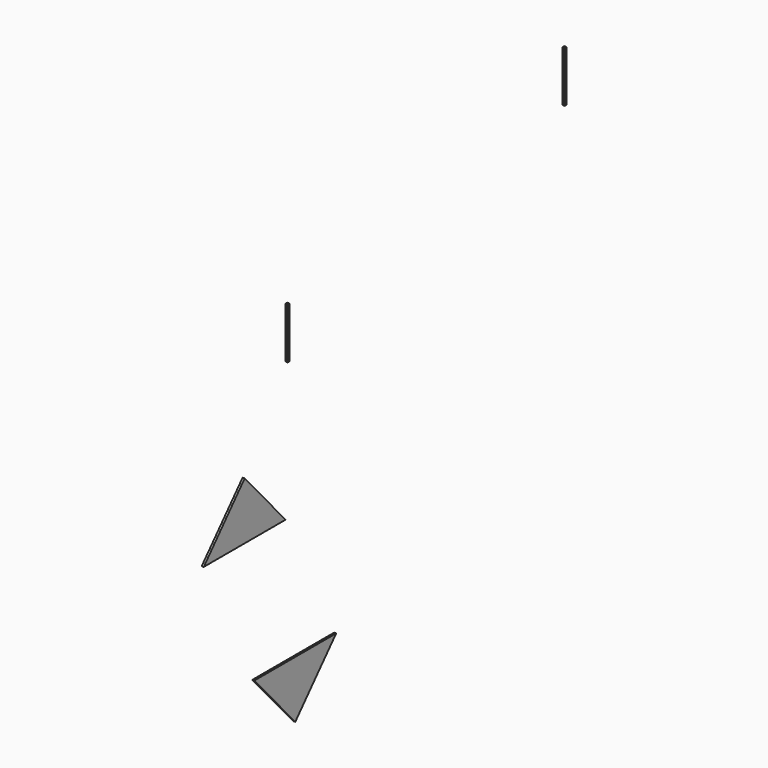
from build123d import *

# Parameters (mm, degrees)
F1_DEPTH = 2
F2_W     = 2
F2_H     = 50
F3_DEPTH = 2
F5_DEPTH = 2
F6_W     = 2
F6_H     = 50
F7_DEPTH = 2


with BuildPart() as f1:
    # F0 (on Right) → F1 (new body)
    with BuildSketch(Plane.YZ):
        Polygon((-100, 0), (0, 0), (-50, 55.901699), align=None)
    extrude(amount=-F1_DEPTH)


with BuildPart() as f3:
    # F2 (on Right) → F3 (new body)
    with BuildSketch(Plane.YZ):
        with Locations((1, 161.007334)):
            Rectangle(F2_W, F2_H)
    extrude(amount=F3_DEPTH)


with BuildPart() as f5:
    # F4 (on Right) → F5 (new body)
    with BuildSketch(Plane.YZ):
        Polygon((59.333722, -121.251218), (-40.666278, -121.251218), (9.333722, -177.152917), align=None)
    extrude(amount=F5_DEPTH)


with BuildPart() as f7:
    # F6 (on Right) → F7 (new body)
    with BuildSketch(Plane.YZ):
        with Locations((339.522574, 244.161454)):
            Rectangle(F6_W, F6_H)
    extrude(amount=F7_DEPTH)


solid = Compound([f1.part, f3.part, f5.part, f7.part])
